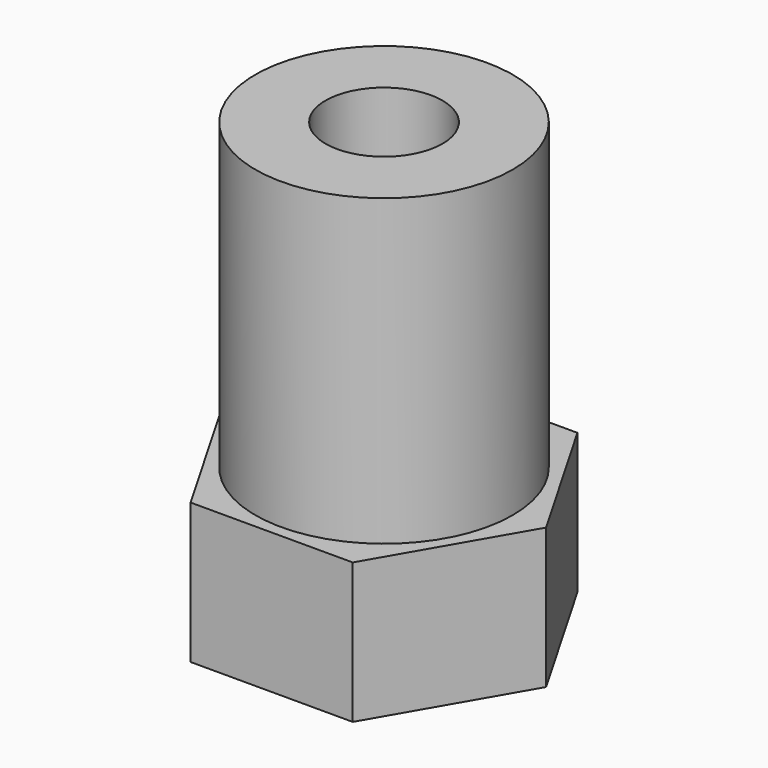
from build123d import *

# Parameters (mm, degrees)
PAD_DEPTH       = 6
SKETCH001_R     = 5.5
PAD001_DEPTH    = 13
SKETCH002_R     = 2
POCKET_DEPTH    = 6
SKETCH003_R     = 2.5
POCKET001_DEPTH = 13


with BuildPart() as part:
    # Sketch → Pad (new body)
    with BuildSketch(Plane.XY):
        Polygon((6.928203, 0), (3.464102, 6), (-3.464102, 6), (-6.928203, 0), (-3.464102, -6), (3.464102, -6), align=None)
    extrude(amount=PAD_DEPTH)

    # Sketch001 (on Face8 of Pad) → Pad001 (join)
    with BuildSketch(Plane.XY.offset(6)):
        Circle(SKETCH001_R)
    extrude(amount=PAD001_DEPTH)

    # Sketch002 (on Face4 of Pad001) → Pocket (cut)
    with BuildSketch(Plane(origin=(0, 0, 0), x_dir=(1, 0, 0), z_dir=(0, 0, -1))):
        Circle(SKETCH002_R)
    extrude(amount=-POCKET_DEPTH, mode=Mode.SUBTRACT)

    # Sketch003 (on Face12 of Pocket) → Pocket001 (cut)
    with BuildSketch(Plane.XY.offset(19)):
        Circle(SKETCH003_R)
    extrude(amount=-POCKET001_DEPTH, mode=Mode.SUBTRACT)


solid = part.part
